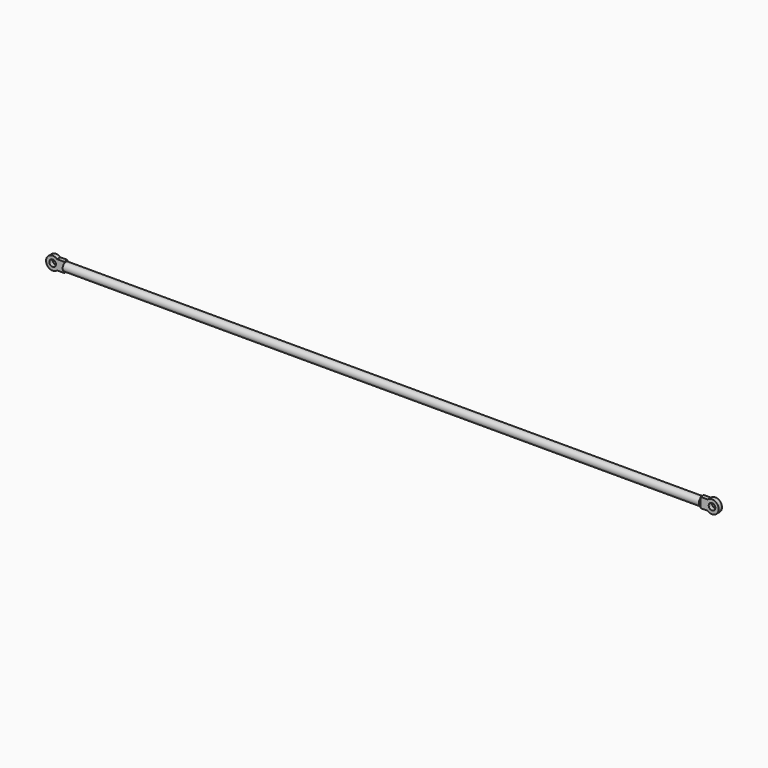
from build123d import *

# Parameters (mm, degrees)
F0_R     = 5
F1_DEPTH = 769.17
F2_R     = 4
F3_DEPTH = 2.5


with BuildPart() as f1:
    # F0 (on Right) → F1 (new body)
    with BuildSketch(Plane.YZ):
        Circle(F0_R)
    extrude(amount=F1_DEPTH)

    # F2 (on Front) → F3 (join, symmetric)
    with BuildSketch(Plane.XZ):
        with BuildLine():
            Line((0, -6), (0, 6))
            Line((0, 6), (-8.708497, 6))
            ThreePointArc((-8.708497, 6), (-22, 0), (-8.708497, -6))
            Line((-8.708497, -6), (0, -6))
        make_face()
        with Locations((-14, 0)):
            Circle(F2_R, mode=Mode.SUBTRACT)
        with BuildLine():
            Line((777.878497, 6), (769.17, 6))
            Line((769.17, 6), (769.17, -6))
            Line((769.17, -6), (777.878497, -6))
            ThreePointArc((777.878497, -6), (791.17, 0), (777.878497, 6))
        make_face()
        with Locations((783.17, 0)):
            Circle(F2_R, mode=Mode.SUBTRACT)
    extrude(amount=F3_DEPTH, both=True)


solid = f1.part
